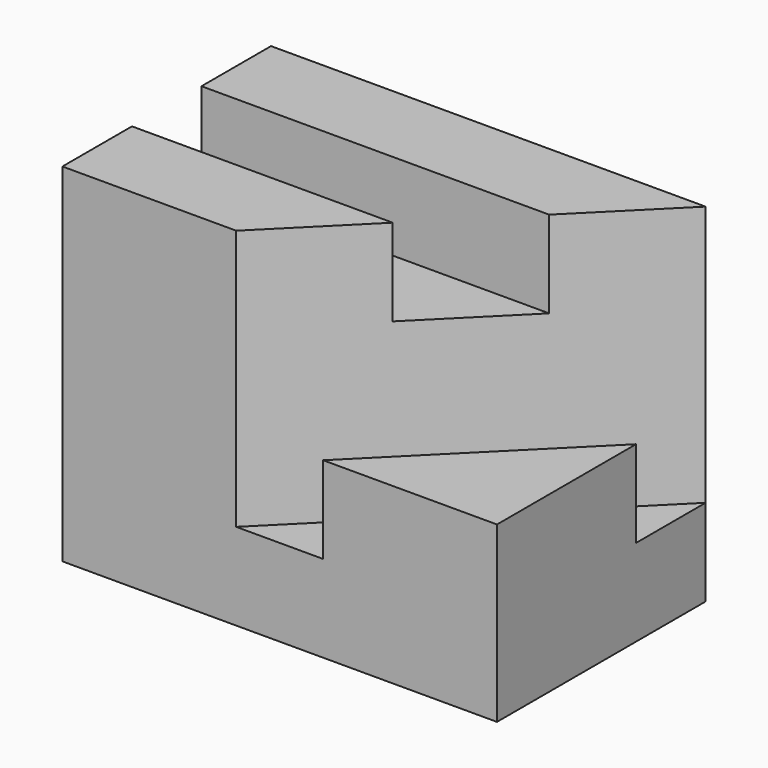
from build123d import *

# Parameters (mm, degrees)
F0_W     = 50
F0_H     = 30
F1_DEPTH = 40
F3_DEPTH = 20
F5_DEPTH = 10
F7_DEPTH = 10


with BuildPart() as f1:
    # F0 (on Top) → F1 (new body)
    with BuildSketch(Plane.XY):
        with Locations((25, 15)):
            Rectangle(F0_W, F0_H)
    extrude(amount=F1_DEPTH)

    # F2 (on face) → F3 (cut)
    with BuildSketch(Plane.XY.offset(40)):
        Polygon((50, 0), (50, 30), (20, 0), align=None)
    extrude(amount=-F3_DEPTH, mode=Mode.SUBTRACT)

    # F4 (on face) → F5 (cut)
    with BuildSketch(Plane.XY.offset(20)):
        Polygon((50, 20), (50, 30), (20, 0), (30, 0), align=None)
    extrude(amount=-F5_DEPTH, mode=Mode.SUBTRACT)

    # F6 (on face) → F7 (cut)
    with BuildSketch(Plane.XY.offset(40)):
        Polygon((0, 20), (0, 10), (30, 10), (40, 20), align=None)
    extrude(amount=-F7_DEPTH, mode=Mode.SUBTRACT)


solid = f1.part
